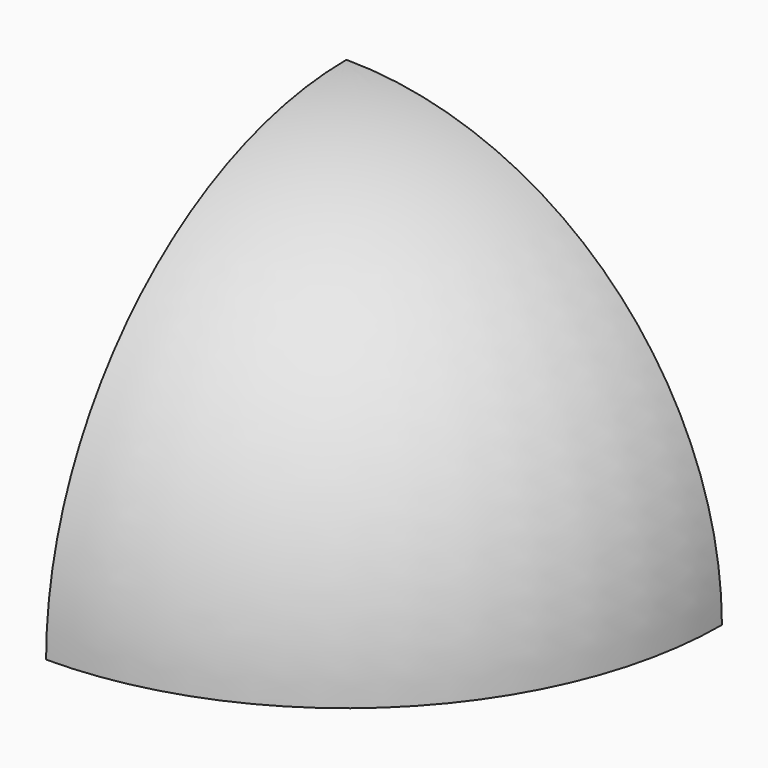
from build123d import *

# Parameters (mm, degrees)
F1_ANGLE = 90
F2_ANGLE = 90


with BuildPart() as f1:
    # F0 (on Front) → F1 (revolve)
    with BuildSketch(Plane.XZ):
        with BuildLine():
            Line((17, 0), (20, 0))
            ThreePointArc((20, 0), (14.142136, 14.142136), (0, 20))
            Line((0, 20), (0, 17))
            ThreePointArc((0, 17), (12.020815, 12.020815), (17, 0))
        make_face()
        with BuildLine():
            Line((0, 0), (17, 0))
            ThreePointArc((17, 0), (12.020815, 12.020815), (0, 17))
            Line((0, 17), (0, 0))
        make_face()
    revolve(axis=Axis((0, 0, 10), (0, 0, -1)), revolution_arc=F1_ANGLE)

    # F0 (on Front) → F2 (revolve, cut)
    with BuildSketch(Plane.XZ):
        with BuildLine():
            Line((0, 0), (17, 0))
            ThreePointArc((17, 0), (12.020815, 12.020815), (0, 17))
            Line((0, 17), (0, 0))
        make_face()
    revolve(axis=Axis((0, 0, 10), (0, 0, -1)), revolution_arc=F2_ANGLE, mode=Mode.SUBTRACT)


solid = f1.part
